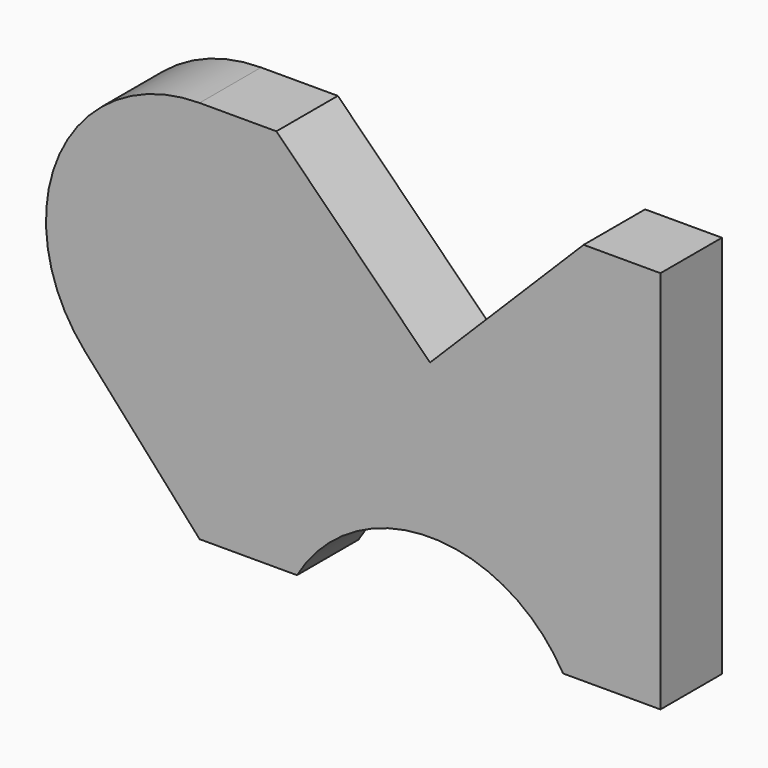
from build123d import *

# Parameters (mm, degrees)
F1_DEPTH = 5


with BuildPart() as f1:
    # F0 (on Front) → F1 (new body, symmetric)
    with BuildSketch(Plane.XZ):
        with BuildLine():
            Line((20, 20), (0, 0))
            Line((0, 0), (-20, 20))
            Line((-20, 20), (-30, 20))
            ThreePointArc((-30, 20), (-48.257419, 8.164966), (-44.90712, -13.333333))
            Line((-44.90712, -13.333333), (-30, -30))
            Line((-30, -30), (-17.320508, -30))
            ThreePointArc((-17.320508, -30), (0, -20), (17.320508, -30))
            Line((17.320508, -30), (30, -30))
            Line((30, -30), (30, 0))
            Line((30, 0), (30, 20))
            Line((30, 20), (20, 20))
        make_face()
    extrude(amount=F1_DEPTH, both=True)


solid = f1.part
